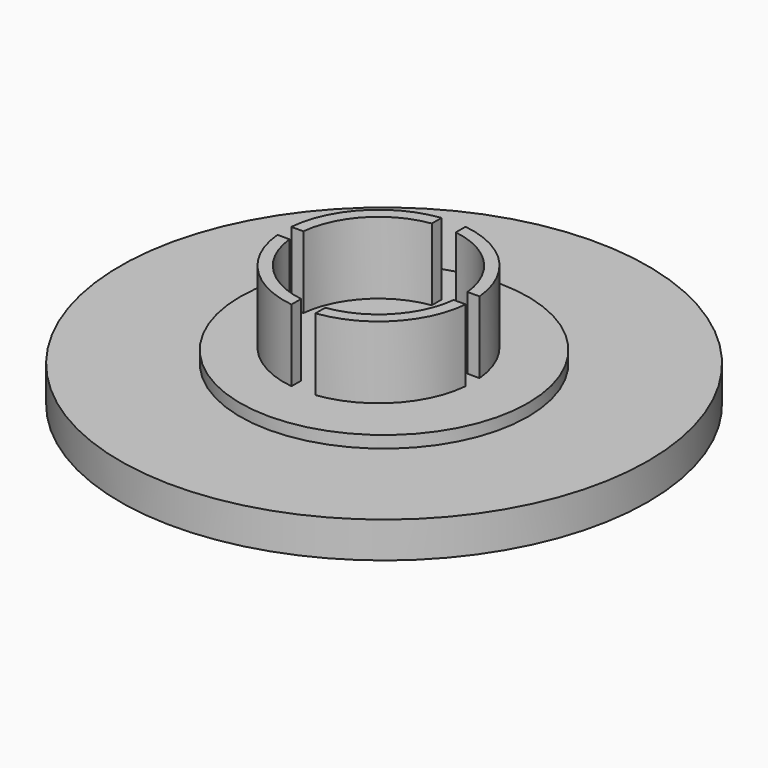
from build123d import *

# Parameters (mm, degrees)
F1_R     = 11
F2_DEPTH = 1.5
F4_R     = 6.000001
F5_DEPTH = 0.5
F7_DEPTH = 3


with BuildPart() as f2:
    # F1 (on Top) → F2 (new body)
    with BuildSketch(Plane.XY):
        with Locations((-26.134714, 14.360657)):
            Circle(F1_R)
    extrude(amount=F2_DEPTH)

    # F4 (on face) → F5 (join)
    with BuildSketch(Plane.XY.offset(1.5)):
        with Locations((-26.134714, 14.360657)):
            Circle(F4_R)
    extrude(amount=F5_DEPTH)

    # F6 (on face) → F7 (join)
    with BuildSketch(Plane.XY.offset(2)):
        with BuildLine():
            Line((-25.887165, 10.981324), (-25.887165, 10.476647))
            ThreePointArc((-25.887165, 10.476647), (-23.551928, 11.648914), (-22.463676, 14.024466))
            Line((-22.463676, 14.024466), (-22.966088, 14.024466))
            ThreePointArc((-22.966088, 14.024466), (-23.905454, 12.002628), (-25.887165, 10.981324))
        make_face()
        with BuildLine():
            ThreePointArc((-26.887165, 10.981324), (-28.868875, 12.002628), (-29.808241, 14.024466))
            Line((-29.808241, 14.024466), (-30.310653, 14.024466))
            ThreePointArc((-30.310653, 14.024466), (-29.222401, 11.648914), (-26.887165, 10.476647))
            Line((-26.887165, 10.476647), (-26.887165, 10.981324))
        make_face()
        with BuildLine():
            ThreePointArc((-29.808241, 14.745119), (-28.868875, 16.766958), (-26.887165, 17.788262))
            Line((-26.887165, 17.788262), (-26.887165, 18.292938))
            ThreePointArc((-26.887165, 18.292938), (-29.222401, 17.120671), (-30.310653, 14.745119))
            Line((-30.310653, 14.745119), (-29.808241, 14.745119))
        make_face()
        with BuildLine():
            Line((-22.966088, 14.745119), (-22.463676, 14.745119))
            ThreePointArc((-22.463676, 14.745119), (-23.551928, 17.120671), (-25.887165, 18.292938))
            Line((-25.887165, 18.292938), (-25.887165, 17.788262))
            ThreePointArc((-25.887165, 17.788262), (-23.905454, 16.766958), (-22.966088, 14.745119))
        make_face()
    extrude(amount=F7_DEPTH)


solid = f2.part
